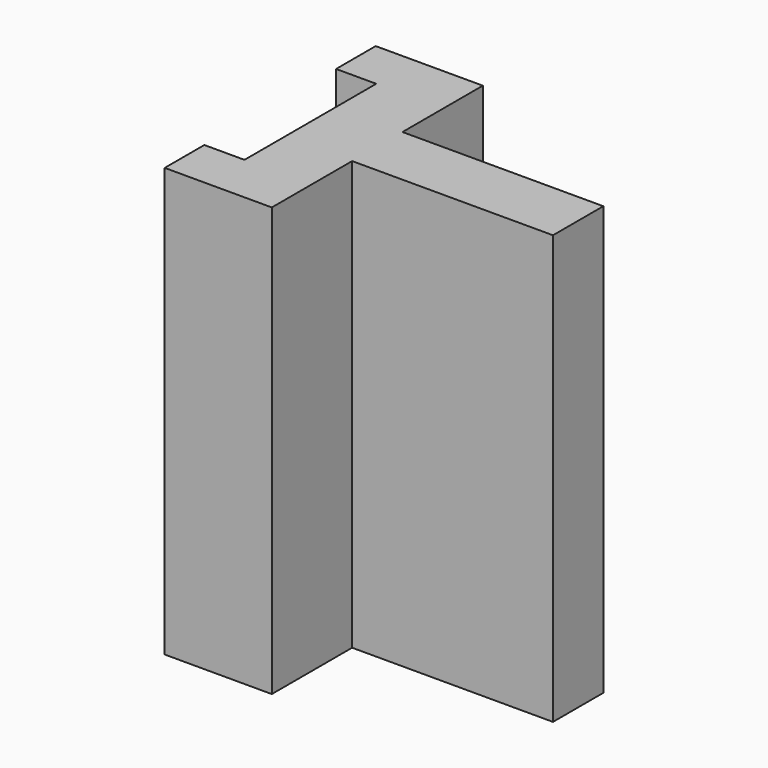
from build123d import *

# Parameters (mm, degrees)
PAD003_DEPTH = 32
SKETCH_W     = 15
SKETCH_H     = 4.7
PAD_DEPTH    = 32


with BuildPart() as part:
    # Sketch005 → Pad003 (new body)
    with BuildSketch(Plane.XY):
        Polygon((-2.5, 9.85), (2.5, 9.85), (2.5, -9.85), (-2.5, -9.85), (-5.5, -9.85), (-5.5, -6.15), (-2.5, -6.15), (-2.5, 6.15), (-5.5, 6.15), (-5.5, 9.85), align=None)
    extrude(amount=PAD003_DEPTH)

    # Sketch → Pad (join)
    with BuildSketch(Plane.XY):
        with Locations((10, 0)):
            Rectangle(SKETCH_W, SKETCH_H)
    extrude(amount=PAD_DEPTH)


solid = part.part
